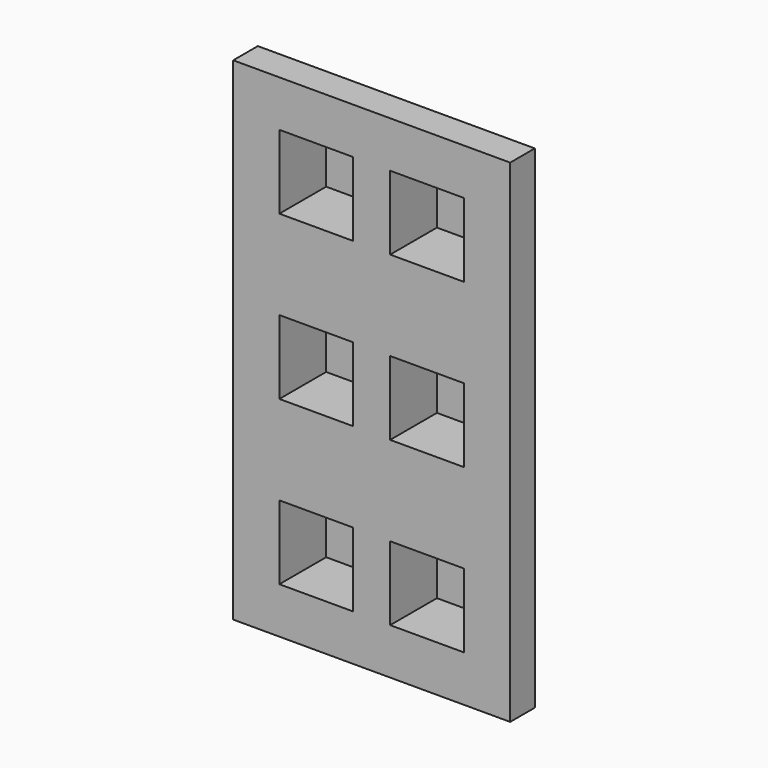
from build123d import *

# Parameters (mm, degrees)
F0_W     = 30.48
F0_H     = 30.48
F1_DEPTH = 25.4
F2_DEPTH = 1.27
F3_SIZE  = 12.7
F4_SIZE  = 12.7


with BuildPart() as f1:
    # F0 (on Front) → F1 (new body)
    with BuildSketch(Plane.XZ):
        Polygon((57.15, 82.55), (57.15, 101.6), (38.1, 101.6), (-38.1, 101.6), (-57.15, 101.6), (-57.15, 82.55), (-57.15, 0), (-57.15, -82.55), (-57.15, -101.6), (-38.1, -101.6), (38.1, -101.6), (57.15, -101.6), (57.15, -82.55), (57.15, 0), align=None)
        with Locations((-22.86, -67.31)):
            Rectangle(F0_W, F0_H, mode=Mode.SUBTRACT)
        Polygon((-38.1, -15.24), (-38.1, 0), (-38.1, 15.24), (-7.62, 15.24), (-7.62, -15.24), align=None, mode=Mode.SUBTRACT)
        with Locations((22.86, -67.31)):
            Rectangle(F0_W, F0_H, mode=Mode.SUBTRACT)
        Polygon((38.1, 15.24), (38.1, 0), (38.1, -15.24), (7.62, -15.24), (7.62, 15.24), align=None, mode=Mode.SUBTRACT)
        with Locations((-22.86, 67.31)):
            Rectangle(F0_W, F0_H, mode=Mode.SUBTRACT)
        with Locations((22.86, 67.31)):
            Rectangle(F0_W, F0_H, mode=Mode.SUBTRACT)
    extrude(amount=F1_DEPTH)

    # F0 (on Front) → F2 (join)
    with BuildSketch(Plane.XZ):
        with Locations((-22.86, 67.31)):
            Rectangle(F0_W, F0_H)
        with Locations((22.86, 67.31)):
            Rectangle(F0_W, F0_H)
        Polygon((-38.1, 15.24), (-38.1, 0), (-38.1, -15.24), (-7.62, -15.24), (-7.62, 15.24), align=None)
        Polygon((38.1, -15.24), (38.1, 0), (38.1, 15.24), (7.62, 15.24), (7.62, -15.24), align=None)
        with Locations((-22.86, -67.31)):
            Rectangle(F0_W, F0_H)
        with Locations((22.86, -67.31)):
            Rectangle(F0_W, F0_H)
    extrude(amount=F2_DEPTH)

    # F3
    f3_edges = [f1.edges().sort_by_distance(p)[0] for p in [
        (0, 0, -101.6),
    ]]
    chamfer(f3_edges, length=F3_SIZE)

    # F4
    f4_edges = [f1.edges().sort_by_distance(p)[0] for p in [
        (-57.15, 0, 6.35),
        (0, 0, 101.6),
        (57.15, 0, 6.35),
    ]]
    chamfer(f4_edges, length=F4_SIZE)


solid = f1.part
